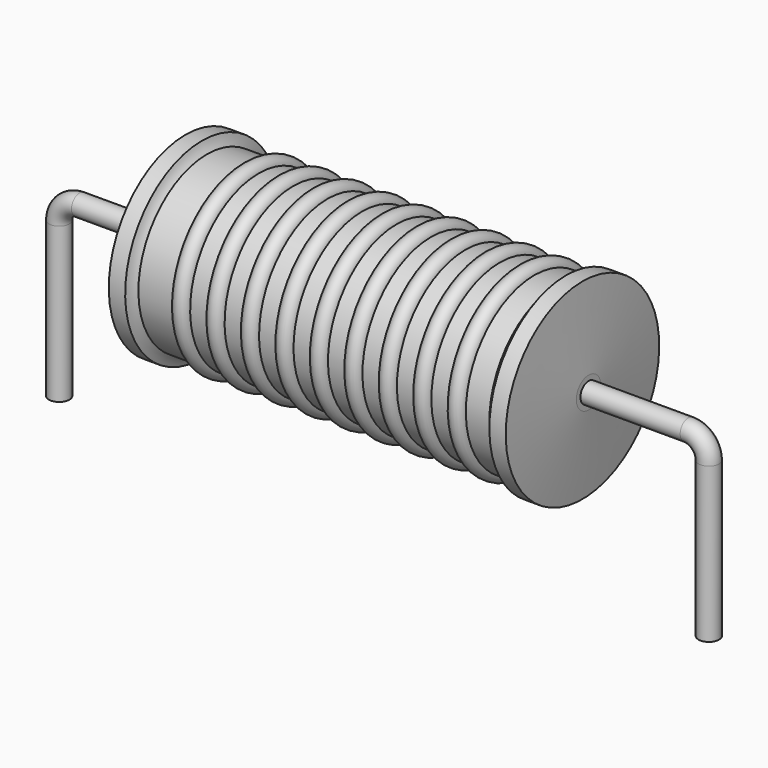
from build123d import *

# Parameters (mm, degrees)
SKETCH_R = 0.4


with BuildPart() as revolution:
    # Sketch002 → Revolution (revolve)
    with BuildSketch(Plane.XZ):
        with BuildLine():
            Line((4.94, 7.6), (5.58, 7.6))
            ThreePointArc((5.58, 7.6), (5.657022, 7.389121), (5.778, 7.2))
            Line((5.778, 7.2), (19.5, 7.2))
            ThreePointArc((19.5, 7.2), (19.680612, 7.38351), (19.82, 7.6))
            Line((19.82, 7.6), (20.46, 7.6))
            ThreePointArc((20.7, 4.45), (20.583835, 6.025292), (20.46, 7.6))
            Line((20.7, 3.85), (20.7, 4.45))
            Line((4.7, 3.85), (20.7, 3.85))
            Line((4.7, 3.85), (4.7, 4.45))
            ThreePointArc((4.94, 7.6), (4.816165, 6.025292), (4.7, 4.45))
        make_face()
    revolve(axis=Axis((4.7, 0, 3.85), (1, 0, 0)))


with BuildPart() as sweep_body:
    # Sweep: sweep along a path in Sketch001
    with BuildLine(Plane.XZ) as sweep_path:
        Line((0, -3), (0, 3.05))
        ThreePointArc((0, 3.05), (0.234311, 3.615682), (0.799991, 3.85))
        Line((0.799991, 3.85), (24.6, 3.85))
        ThreePointArc((24.6, 3.85), (25.165685, 3.615685), (25.4, 3.05))
        Line((25.4, 3.05), (25.4, -3))
    # Sketch → Sweep (sweep)
    with BuildSketch(Plane.XY.offset(-2)):
        Circle(SKETCH_R)
    sweep(path=sweep_path.line)


with BuildPart() as revolution001:
    # Sketch003 → Revolution001 (revolve)
    with BuildSketch(Plane.XZ):
        with BuildLine():
            ThreePointArc((7.807368, 7.136), (7.470526, 7.472842), (7.133684, 7.136))
            Line((6.46, 7.136), (7.133684, 7.136))
            Line((6.46, 7.136), (6.46, 6.386))
            Line((6.46, 6.386), (19.26, 6.386))
            Line((19.26, 6.386), (19.26, 7.136))
            Line((18.586316, 7.136), (19.26, 7.136))
            ThreePointArc((18.586316, 7.136), (18.249474, 7.472842), (17.912632, 7.136))
            Line((17.238947, 7.136), (17.912632, 7.136))
            ThreePointArc((17.238947, 7.136), (16.902105, 7.472842), (16.565263, 7.136))
            Line((15.891579, 7.136), (16.565263, 7.136))
            ThreePointArc((15.891579, 7.136), (15.554737, 7.472842), (15.217895, 7.136))
            Line((14.544211, 7.136), (15.217895, 7.136))
            ThreePointArc((14.544211, 7.136), (14.207368, 7.472842), (13.870526, 7.136))
            Line((13.196842, 7.136), (13.870526, 7.136))
            ThreePointArc((13.196842, 7.136), (12.86, 7.472842), (12.523158, 7.136))
            Line((11.849474, 7.136), (12.523158, 7.136))
            ThreePointArc((11.849474, 7.136), (11.512632, 7.472842), (11.175789, 7.136))
            Line((10.502105, 7.136), (11.175789, 7.136))
            ThreePointArc((10.502105, 7.136), (10.165263, 7.472842), (9.828421, 7.136))
            Line((9.154737, 7.136), (9.828421, 7.136))
            ThreePointArc((9.154737, 7.136), (8.817895, 7.472842), (8.481053, 7.136))
            Line((7.807368, 7.136), (8.481053, 7.136))
        make_face()
    revolve(axis=Axis((5.1, 0, 3.85), (1, 0, 0)))


solid = Compound([revolution.part, sweep_body.part, revolution001.part])
